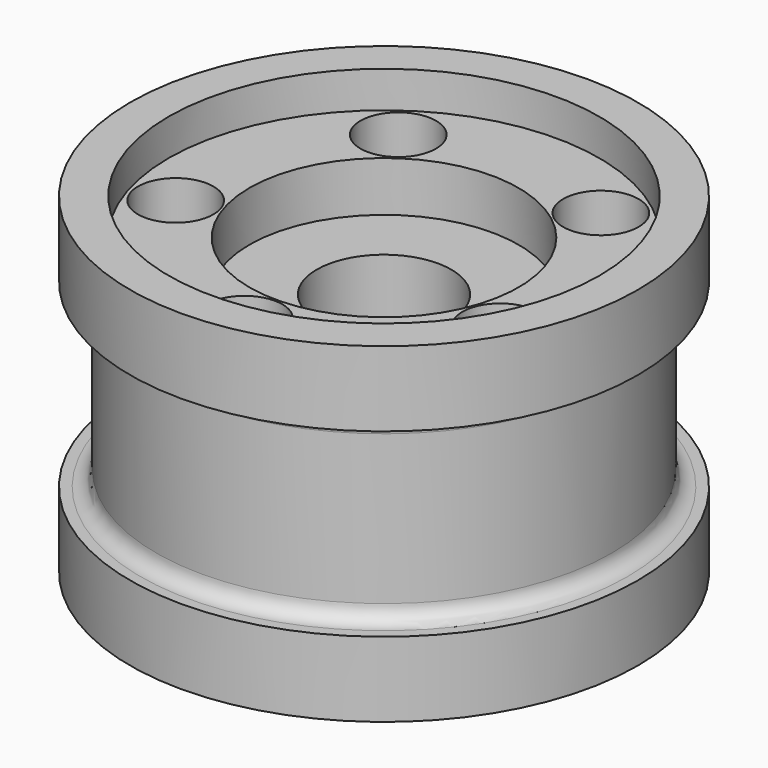
from build123d import *

# Parameters (mm, degrees)
F2_R     = 3
F3_R     = 3
F4_R     = 7.243967
F5_DEPTH = 105.41


with BuildPart() as f1:
    # F0 (on Front) → F1 (revolve)
    with BuildSketch(Plane.XZ):
        Polygon((-12.904838, 16.591936), (-12.904838, 31.709034), (-12.904838, 46.826132), (-25.809675, 46.826132), (-25.809675, 56.412581), (-41.295484, 56.412581), (-41.295484, 63.418068), (-48.669677, 63.418068), (-48.669677, 49.038392), (-43.692097, 49.038392), (-43.692097, 31.709034), (-43.692097, 14.379676), (-48.669677, 14.379676), (-48.669677, 0), (-41.295484, 0), (-41.295484, 7.005487), (-25.809675, 7.005487), (-25.809675, 16.591936), align=None)
    revolve(axis=Axis((0, 0, 52.264599), (0, 0, 1)))

    # F2
    f2_edges = [f1.edges().sort_by_distance(p)[0] for p in [
        (43.692097, 0, 49.038392),
    ]]
    fillet(f2_edges, radius=F2_R)

    # F3
    f3_edges = [f1.edges().sort_by_distance(p)[0] for p in [
        (43.692097, 0, 14.379676),
    ]]
    fillet(f3_edges, radius=F3_R)

    # F4 (on Top) → F5 (cut)
    with BuildSketch(Plane.XY):
        with Locations((0, -33.43946)):
            Circle(F4_R)
        with Locations((-31.89178, -10.055439)):
            Circle(F4_R)
        with Locations((-19.180086, 27.392002)):
            Circle(F4_R)
        with Locations((20.356653, 26.529307)):
            Circle(F4_R)
        with Locations((31.422813, -11.436969)):
            Circle(F4_R)
    extrude(amount=F5_DEPTH, mode=Mode.SUBTRACT)


solid = f1.part
